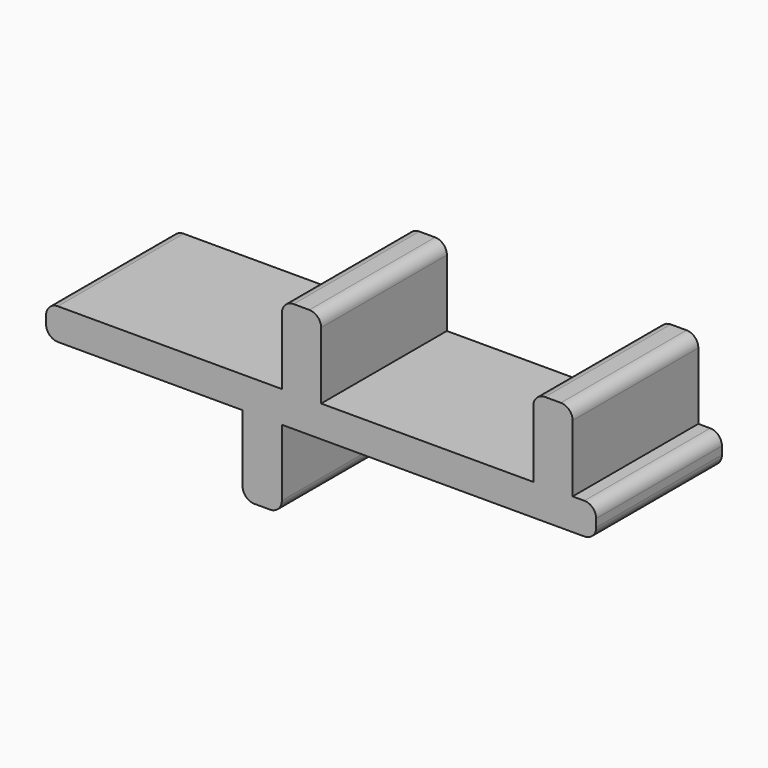
from build123d import *

# Parameters (mm, degrees)
BOX002_W     = 27
BOX002_H     = 20
BOX002_DEPTH = 10
BOX001_W     = 37
BOX001_H     = 20
BOX001_DEPTH = 10
FILLET001_R  = 1.5
BOX003_W     = 5
BOX003_H     = 20
BOX003_DEPTH = 10
FILLET002_R  = 1.5
BOX_W        = 70
BOX_H        = 20
BOX_DEPTH    = 4
FILLET_R     = 1.5


with BuildPart() as cube002:
    # Box002 → Box002 (new body)
    with BuildSketch(Plane(origin=(35, 0, 4), x_dir=(1, 0, 0), z_dir=(0, 0, 1))):
        with Locations((13.5, 10)):
            Rectangle(BOX002_W, BOX002_H)
    extrude(amount=BOX002_DEPTH)


with BuildPart() as fillet001:
    # Box001 → Box001 (new body)
    with BuildSketch(Plane(origin=(30, 0, 4), x_dir=(1, 0, 0), z_dir=(0, 0, 1))):
        with Locations((18.5, 10)):
            Rectangle(BOX001_W, BOX001_H)
    extrude(amount=BOX001_DEPTH)

    # Cut001: cut Cube002
    add(cube002.part, mode=Mode.SUBTRACT)

    # Fillet001
    fillet001_edges = [fillet001.edges().sort_by_distance(p)[0] for p in [
        (30, 10, 14),
        (35, 10, 14),
        (67, 10, 14),
        (62, 10, 14),
    ]]
    fillet(fillet001_edges, radius=FILLET001_R)


with BuildPart() as fillet002:
    # Box003 → Box003 (new body)
    with BuildSketch(Plane(origin=(25, 0, -10), x_dir=(1, 0, 0), z_dir=(0, 0, 1))):
        with Locations((2.5, 10)):
            Rectangle(BOX003_W, BOX003_H)
    extrude(amount=BOX003_DEPTH)

    # Fillet002
    fillet002_edges = [fillet002.edges().sort_by_distance(p)[0] for p in [
        (25, 10, -10),
        (30, 10, -10),
    ]]
    fillet(fillet002_edges, radius=FILLET002_R)


with BuildPart() as fusion:
    # Box → Box (new body)
    with BuildSketch(Plane.XY):
        with Locations((35, 10)):
            Rectangle(BOX_W, BOX_H)
    extrude(amount=BOX_DEPTH)

    # Fillet
    fillet_edges = [fusion.edges().sort_by_distance(p)[0] for p in [
        (0, 10, 4),
        (0, 10, 0),
        (70, 10, 4),
        (70, 10, 0),
    ]]
    fillet(fillet_edges, radius=FILLET_R)

    # Fusion: union Fillet001, Fillet002
    add(fillet001.part)
    add(fillet002.part)


solid = fusion.part
